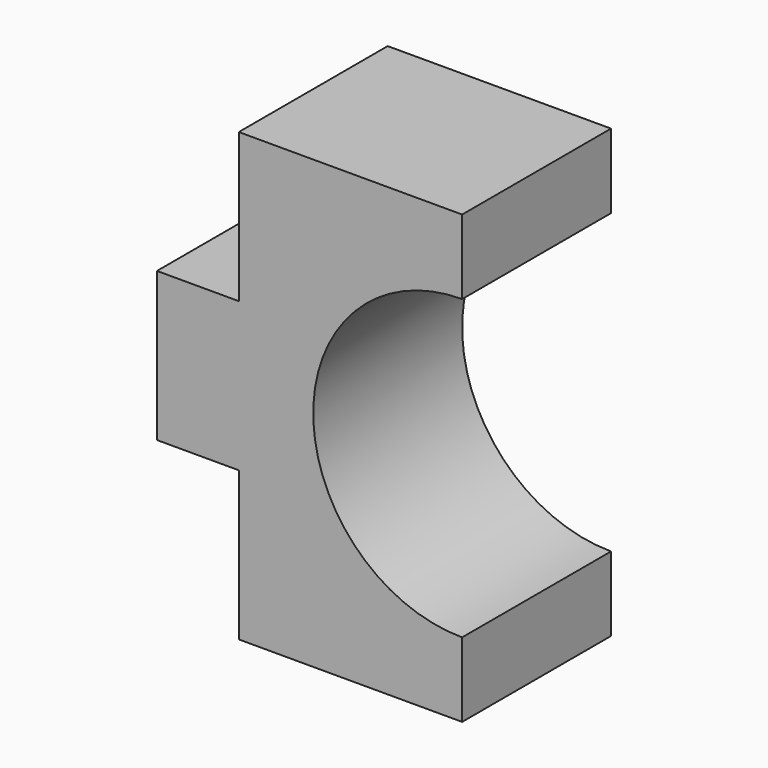
from build123d import *

# Parameters (mm, degrees)
F1_DEPTH = 25


with BuildPart() as f1:
    # F0 (on Front) → F1 (new body)
    with BuildSketch(Plane.XZ):
        with BuildLine():
            Line((-15.839977, 60), (-45.839977, 60))
            Line((-45.839977, 60), (-45.839977, 40))
            Line((-45.839977, 40), (-56.830003, 40))
            Line((-56.830003, 40), (-56.830003, 20))
            Line((-56.830003, 20), (-45.839977, 20))
            Line((-45.839977, 20), (-45.839977, 0))
            Line((-45.839977, 0), (-15.839977, 0))
            Line((-15.839977, 0), (-15.839977, 10))
            ThreePointArc((-15.839977, 10), (-35.839977, 30), (-15.839977, 50))
            Line((-15.839977, 50), (-15.839977, 60))
        make_face()
    extrude(amount=F1_DEPTH)


solid = f1.part
